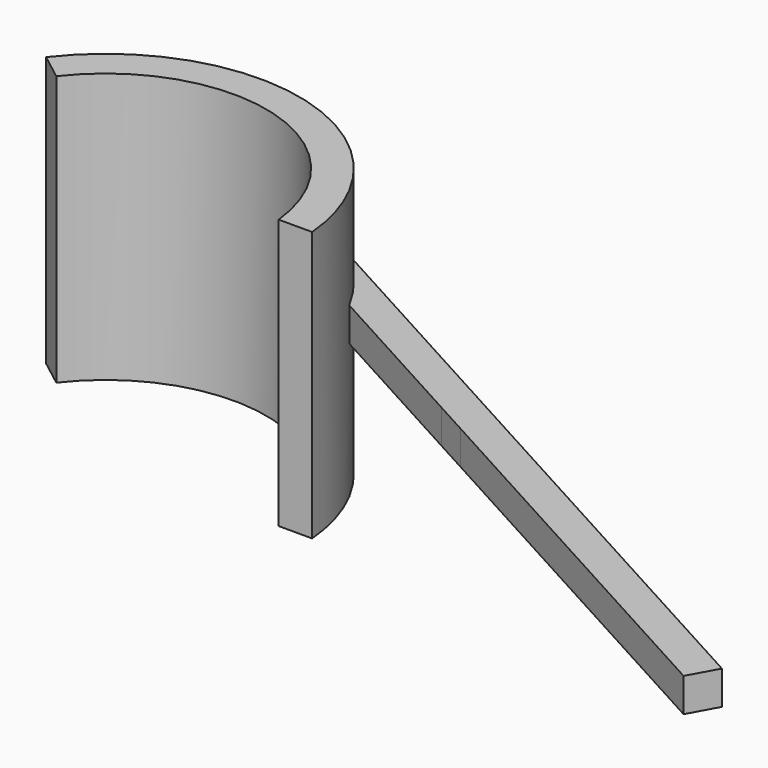
from build123d import *

# Parameters (mm, degrees)
F1_DEPTH = 8
F2_DEPTH = 2


with BuildPart() as f1:
    # F0 (on Top) → F1 (new body, symmetric)
    with BuildSketch(Plane.XY):
        with BuildLine():
            ThreePointArc((-7.5566905663, 5.7984526113), (2.5833573647, 9.1679817695), (9.4723611101, 1))
            Line((9.4723611101, 1), (11.4564392374, 1))
            ThreePointArc((11.4564392374, 1), (11.0364450387, 3.2321635028), (10.1859294227, 5.3382433249))
            ThreePointArc((10.1859294227, 5.3382433249), (8.2074300514, 8.055314516), (5.5278432783, 10.084292176))
            ThreePointArc((5.5278432783, 10.084292176), (-2.3684064244, 11.2534728421), (-9.1235634133, 7.0007564336))
            Line((-9.1235634133, 7.0007564336), (-7.5566905663, 5.7984526113))
        make_face()
    extrude(amount=F1_DEPTH, both=True)

    # F0 (on Top) → F2 (join)
    with BuildSketch(Plane.XY):
        with BuildLine():
            ThreePointArc((5.5278432783, 10.084292176), (8.2074300514, 8.055314516), (10.1859294227, 5.3382433249))
            Line((10.1859294227, 5.3382433249), (19.924339628, 0))
            Line((19.924339628, 0), (21.924339628, 1.0963274728))
            Line((21.924339628, 1.0963274728), (5.5278432783, 10.084292176))
        make_face()
        Polygon((21.924339628, 1.0963274728), (19.924339628, 0), (21.924339628, -1.0963274728), (23.924339628, 0), align=None)
        Polygon((23.924339628, 0), (21.924339628, -1.0963274728), (45.4999829336, -14.0196401956), (46.4242037672, -12.3336095953), align=None)
    extrude(amount=F2_DEPTH)


solid = f1.part
